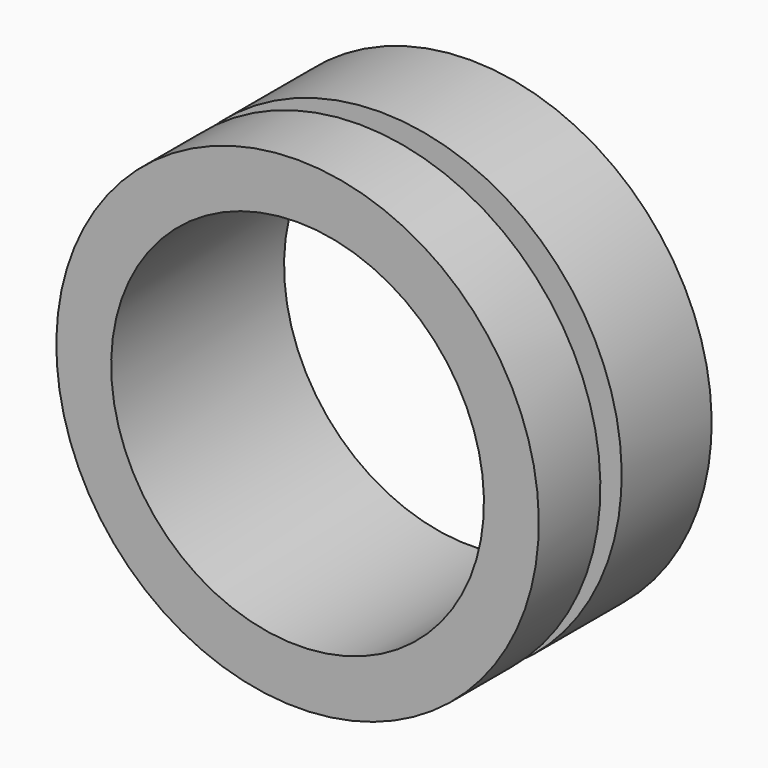
from build123d import *

# Parameters (mm, degrees)
F0_W = 1.2338133566
F0_H = 1.1690965625


with BuildPart() as f1:
    # F0 (on Right) → F1 (revolve)
    with BuildSketch(Plane.YZ):
        Polygon((0, 11.1728689732), (0, 8.6328689732), (3.564351741, 8.6328689732), (3.564351741, 9.8019655357), (3.564351741, 11.1728689732), align=None)
        with Locations((4.1812584193, 9.2174172544)):
            Rectangle(F0_W, F0_H)
        Polygon((4.7981650976, 9.8019655357), (4.7981650976, 8.6328689732), (10.0076, 8.6328689732), (10.0076, 11.1728689732), (4.7981650976, 11.1728689732), align=None)
    revolve(axis=Axis((0, 5.2644882008, 0), (0, 1, 0)))


solid = f1.part
